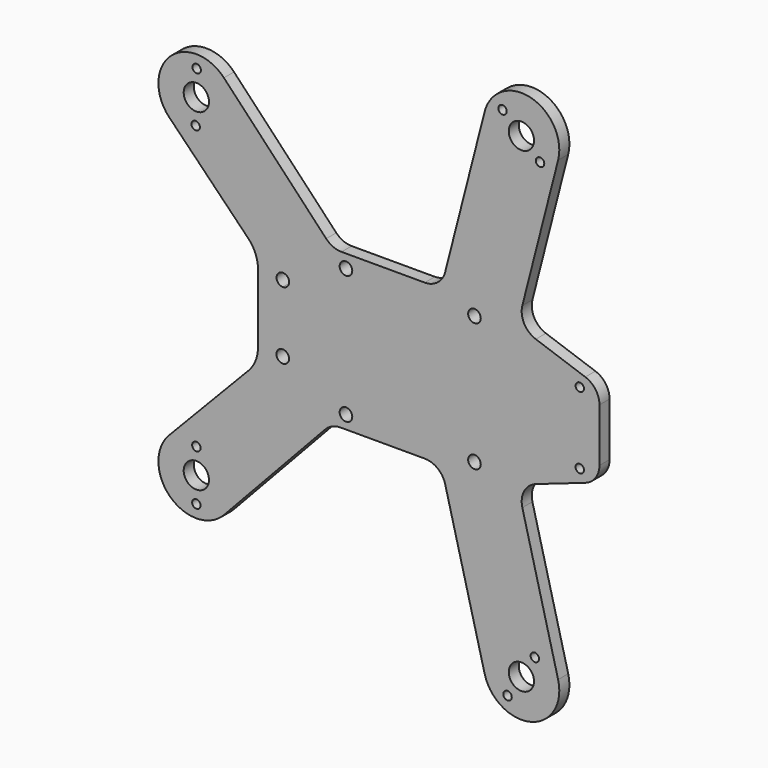
from build123d import *

# Parameters (mm, degrees)
F0_R     = 1
F0_R_2   = 3
F0_R_3   = 1.5
F1_DEPTH = 3


with BuildPart() as f1:
    # F0 (on Front) → F1 (new body)
    with BuildSketch(Plane.XZ):
        with BuildLine():
            Line((-23.863873, -18.387415), (-3.880417, -18.387415))
            ThreePointArc((-3.880417, -18.387415), (-0.814886, -19.437413), (0.963125, -22.146408))
            Line((0.963125, -22.146408), (10.337516, -58.733814))
            ThreePointArc((10.337516, -58.733814), (21.289706, -65.218376), (27.774267, -54.266186))
            Line((27.774267, -54.266186), (19.277183, -21.102826))
            ThreePointArc((19.277183, -21.102826), (19.715388, -17.496865), (22.478727, -15.139124))
            Line((22.478727, -15.139124), (34.22563, -11.054934))
            ThreePointArc((34.22563, -11.054934), (36.658555, -9.229653), (37.583633, -6.332239))
            Line((37.583633, -6.332239), (37.583633, -5.887415))
            Line((37.583633, -5.887415), (37.583633, 5.887415))
            Line((37.583633, 5.887415), (37.583633, 6.332239))
            ThreePointArc((37.583633, 6.332239), (36.658555, 9.229653), (34.22563, 11.054934))
            Line((34.22563, 11.054934), (22.478727, 15.139124))
            ThreePointArc((22.478727, 15.139124), (19.715388, 17.496865), (19.277183, 21.102826))
            Line((19.277183, 21.102826), (27.774267, 54.266186))
            ThreePointArc((27.774267, 54.266186), (21.289706, 65.218376), (10.337516, 58.733814))
            Line((10.337516, 58.733814), (0.963125, 22.146408))
            ThreePointArc((0.963125, 22.146408), (-0.814886, 19.437413), (-3.880417, 18.387415))
            Line((-3.880417, 18.387415), (-23.636704, 18.387415))
            ThreePointArc((-23.636704, 18.387415), (-25.616733, 18.796175), (-27.273019, 19.955621))
            Line((-27.273019, 19.955621), (-51.547948, 45.67723))
            ThreePointArc((-51.547948, 45.67723), (-64.326865, 45.991752), (-64.530968, 33.210594))
            Line((-64.530968, 33.210594), (-45.747828, 13.984717))
            ThreePointArc((-45.747828, 13.984717), (-44.061446, 11.412506), (-43.470186, 8.394134))
            Line((-43.470186, 8.394134), (-43.470186, -8.038917))
            ThreePointArc((-43.470186, -8.038917), (-44.047755, -11.023464), (-45.697065, -13.577065))
            Line((-45.697065, -13.577065), (-64.588075, -33.269584))
            ThreePointArc((-64.588075, -33.269584), (-64.281862, -46.034668), (-51.51901, -45.646423))
            Line((-51.51901, -45.646423), (-27.516265, -19.972736))
            ThreePointArc((-27.516265, -19.972736), (-25.854677, -18.800837), (-23.863873, -18.387415))
        make_face()
        with Locations((-58.093314, -45.5)):
            Circle(F0_R, mode=Mode.SUBTRACT)
        with Locations((-58.093314, -39.5)):
            Circle(F0_R_2, mode=Mode.SUBTRACT)
        with Locations((-58.093314, -33.5)):
            Circle(F0_R, mode=Mode.SUBTRACT)
        with BuildLine():
            ThreePointArc((-36.083633, -8), (-38.646085, -9.058865), (-37.578558, -6.500009))
            ThreePointArc((-37.578558, -6.500009), (-36.52118, -6.941135), (-36.083633, -8))
        make_face(mode=Mode.SUBTRACT)
        with Locations((-22.583633, -15.25)):
            Circle(F0_R_3, mode=Mode.SUBTRACT)
        with Locations((15.770745, -61.520738)):
            Circle(F0_R, mode=Mode.SUBTRACT)
        with Locations((19.055892, -56.5)):
            Circle(F0_R_2, mode=Mode.SUBTRACT)
        with Locations((22.243455, -51.416749)):
            Circle(F0_R, mode=Mode.SUBTRACT)
        with Locations((7.916367, -15.25)):
            Circle(F0_R_3, mode=Mode.SUBTRACT)
        with Locations((32.916367, -8.5)):
            Circle(F0_R, mode=Mode.SUBTRACT)
        with BuildLine():
            ThreePointArc((-37.55657, 5.322031), (-37.515348, 5.367937), (-37.473773, 5.413524))
            Line((-37.473773, 5.413524), (-37.55657, 5.321561))
            Line((-37.55657, 5.321561), (-37.583633, 5.291503))
            ThreePointArc((-37.583633, 5.291503), (-37.570121, 5.306784), (-37.55657, 5.322031))
        make_face(mode=Mode.SUBTRACT)
        with BuildLine():
            ThreePointArc((-36.05657, 8), (-36.49591, 6.93934), (-37.55657, 6.5))
            ThreePointArc((-37.55657, 6.5), (-38.61723, 9.06066), (-36.05657, 8))
        make_face(mode=Mode.SUBTRACT)
        with Locations((-22.583633, 15.25)):
            Circle(F0_R_3, mode=Mode.SUBTRACT)
        with Locations((-58.247652, 33.5)):
            Circle(F0_R, mode=Mode.SUBTRACT)
        with Locations((-58.093314, 39.5)):
            Circle(F0_R_2, mode=Mode.SUBTRACT)
        with Locations((-58.015386, 45.5)):
            Circle(F0_R, mode=Mode.SUBTRACT)
        with Locations((7.916367, 15.25)):
            Circle(F0_R_3, mode=Mode.SUBTRACT)
        with Locations((32.916367, 8.5)):
            Circle(F0_R, mode=Mode.SUBTRACT)
        with Locations((23.488869, 52.456646)):
            Circle(F0_R, mode=Mode.SUBTRACT)
        with Locations((19.055892, 56.5)):
            Circle(F0_R_2, mode=Mode.SUBTRACT)
        with Locations((14.574306, 60.48941)):
            Circle(F0_R, mode=Mode.SUBTRACT)
    extrude(amount=F1_DEPTH)


solid = f1.part
